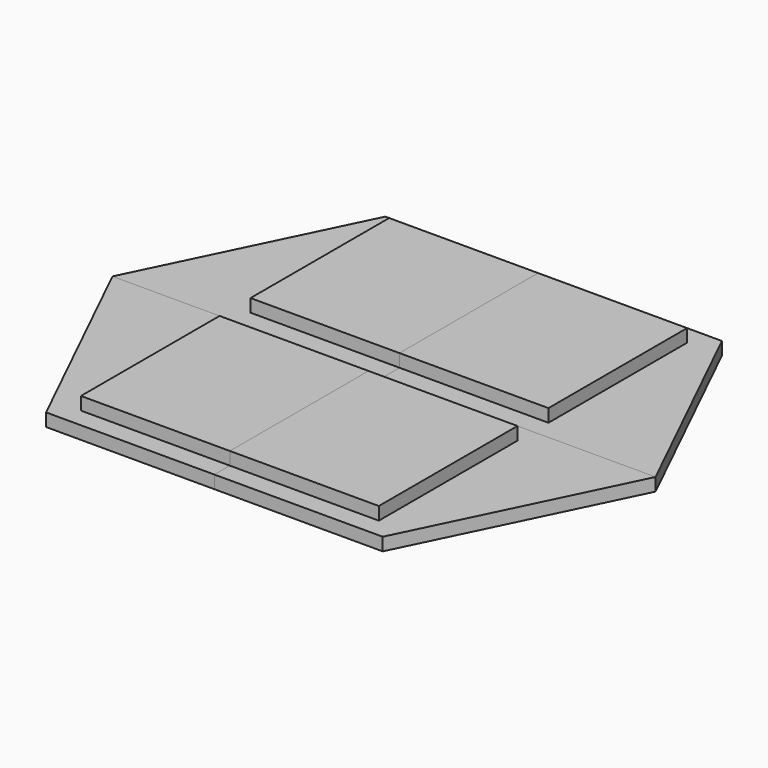
from build123d import *

# Parameters (mm, degrees)
F1_DEPTH = 1.1176
F2_W     = 12.9032
F2_H     = 15.0114
F3_DEPTH = 1.1176


with BuildPart() as f1:
    # F0 (on Top) → F1 (new body)
    with BuildSketch(Plane.XY):
        Polygon((0, 18.3642), (0, 0), (23.5204, 0), (14.5796, 18.3642), align=None)
    extrude(amount=F1_DEPTH)

    # F2 (on face) → F3 (join)
    with BuildSketch(Plane.XY.offset(1.1176)):
        with Locations((6.4516, 9.1821)):
            Rectangle(F2_W, F2_H)
    extrude(amount=F3_DEPTH)


with BuildPart() as f4_1:
    # F4: instance of F1
    add(f1.part.mirror(Plane(origin=(0, 9.1821, 1.061465), x_dir=(0, -1, 0), z_dir=(-1, 0, 0))))


with BuildPart() as f5_1:
    # F5: instance of F4_1
    add(f4_1.part.mirror(Plane.XZ))


with BuildPart() as f5_2:
    # F5: instance of F1
    add(f1.part.mirror(Plane.XZ))


solid = Compound([f1.part, f4_1.part, f5_1.part, f5_2.part])
